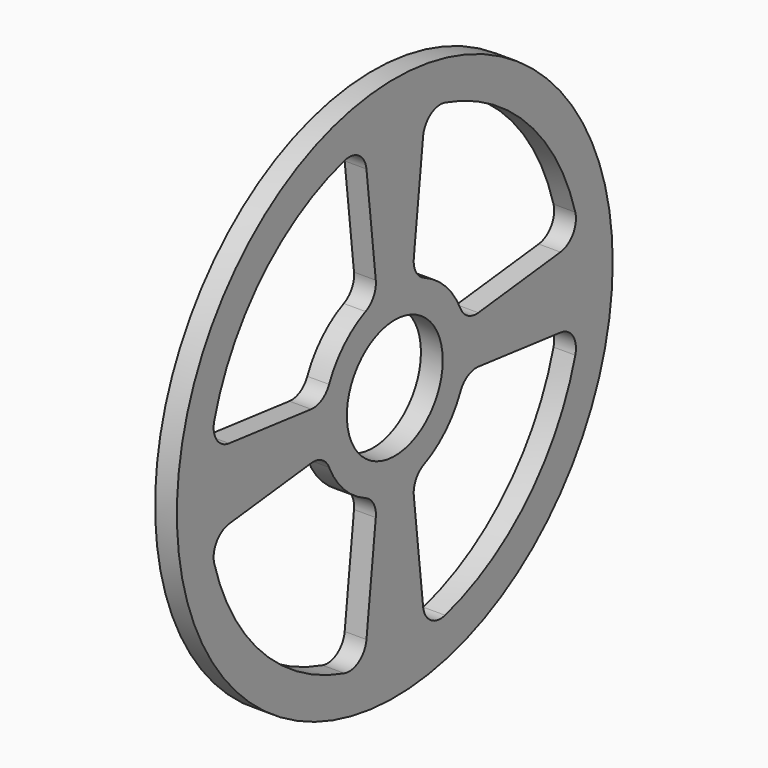
from build123d import *

# Parameters (mm, degrees)
F0_R     = 25
F0_R_2   = 5.5
F1_DEPTH = 2


with BuildPart() as f1:
    # F0 (on Right) → F1 (new body)
    with BuildSketch(Plane.YZ):
        Circle(F0_R)
        with BuildLine():
            ThreePointArc((-20.710142, -5.774083), (-20.442251, -4.119402), (-19.009279, -3.24973))
            Line((-19.009279, -3.24973), (-9.590252, -2.18014))
            ThreePointArc((-9.590252, -2.18014), (-8.371676, -2.431246), (-7.537353, -3.354223))
            ThreePointArc((-7.537353, -3.354223), (-5.833631, -5.833631), (-3.354223, -7.537353))
            ThreePointArc((-3.354223, -7.537353), (-2.431246, -8.371676), (-2.18014, -9.590252))
            Line((-2.18014, -9.590252), (-3.24973, -19.009279))
            ThreePointArc((-3.24973, -19.009279), (-4.119402, -20.442251), (-5.774083, -20.710142))
            ThreePointArc((-5.774083, -20.710142), (-15.202796, -15.202796), (-20.710142, -5.774083))
        make_face(mode=Mode.SUBTRACT)
        with BuildLine():
            ThreePointArc((5.774083, -20.710142), (4.119402, -20.442251), (3.24973, -19.009279))
            Line((3.24973, -19.009279), (2.18014, -9.590252))
            ThreePointArc((2.18014, -9.590252), (2.431246, -8.371676), (3.354223, -7.537353))
            ThreePointArc((3.354223, -7.537353), (5.833631, -5.833631), (7.537353, -3.354223))
            ThreePointArc((7.537353, -3.354223), (8.371676, -2.431246), (9.590252, -2.18014))
            Line((9.590252, -2.18014), (19.009279, -3.24973))
            ThreePointArc((19.009279, -3.24973), (20.442251, -4.119402), (20.710142, -5.774083))
            ThreePointArc((20.710142, -5.774083), (15.202796, -15.202796), (5.774083, -20.710142))
        make_face(mode=Mode.SUBTRACT)
        with BuildLine():
            ThreePointArc((-20.710142, 5.774083), (-15.202796, 15.202796), (-5.774083, 20.710142))
            ThreePointArc((-5.774083, 20.710142), (-4.119402, 20.442251), (-3.24973, 19.009279))
            Line((-3.24973, 19.009279), (-2.18014, 9.590252))
            ThreePointArc((-2.18014, 9.590252), (-2.431246, 8.371676), (-3.354223, 7.537353))
            ThreePointArc((-3.354223, 7.537353), (-5.833631, 5.833631), (-7.537353, 3.354223))
            ThreePointArc((-7.537353, 3.354223), (-8.371676, 2.431246), (-9.590252, 2.18014))
            Line((-9.590252, 2.18014), (-19.009279, 3.24973))
            ThreePointArc((-19.009279, 3.24973), (-20.442251, 4.119402), (-20.710142, 5.774083))
        make_face(mode=Mode.SUBTRACT)
        Circle(F0_R_2, mode=Mode.SUBTRACT)
        with BuildLine():
            Line((2.18014, 9.590252), (3.24973, 19.009279))
            ThreePointArc((3.24973, 19.009279), (4.119402, 20.442251), (5.774083, 20.710142))
            ThreePointArc((5.774083, 20.710142), (15.202796, 15.202796), (20.710142, 5.774083))
            ThreePointArc((20.710142, 5.774083), (20.442251, 4.119402), (19.009279, 3.24973))
            Line((19.009279, 3.24973), (9.590252, 2.18014))
            ThreePointArc((9.590252, 2.18014), (8.371676, 2.431246), (7.537353, 3.354223))
            ThreePointArc((7.537353, 3.354223), (5.833631, 5.833631), (3.354223, 7.537353))
            ThreePointArc((3.354223, 7.537353), (2.431246, 8.371676), (2.18014, 9.590252))
        make_face(mode=Mode.SUBTRACT)
    extrude(amount=F1_DEPTH)


solid = f1.part
